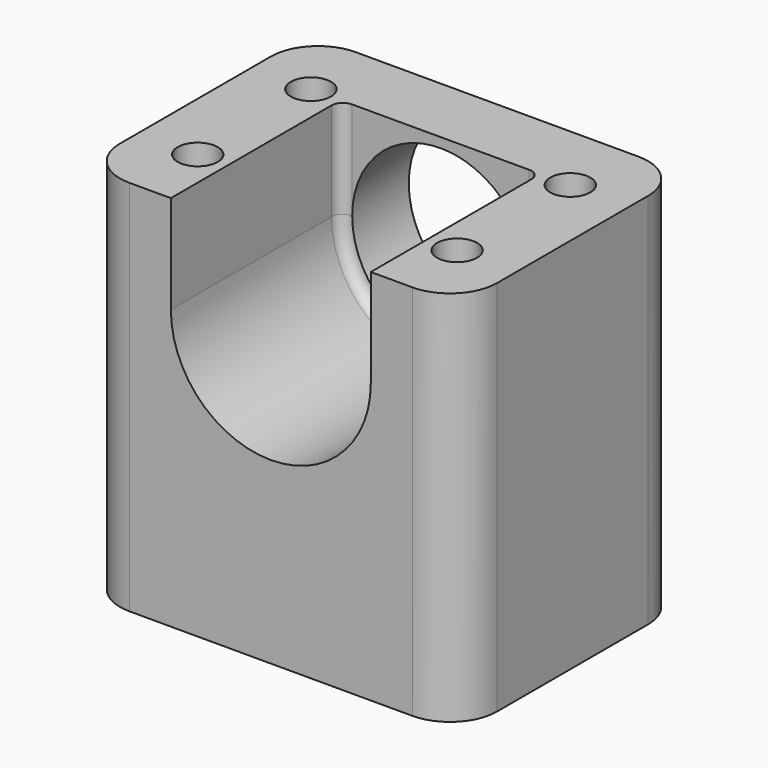
from build123d import *

# Parameters (mm, degrees)
F0_W     = 25.4
F0_H     = 19.05
F1_DEPTH = 25.4
F3_DEPTH = 14.2875
F5_D     = 2.7051
F7_D     = 11.90498
F8_R     = 3.175
F9_R     = 0.762


with BuildPart() as f1:
    # F0 (on Top) → F1 (new body)
    with BuildSketch(Plane.XY):
        Rectangle(F0_W, F0_H)
    extrude(amount=F1_DEPTH)

    # F2 (on face) → F3 (cut)
    with BuildSketch(Plane.XZ.offset(9.525)):
        with BuildLine():
            Line((6.731, 25.4), (-6.731, 25.4))
            Line((-6.731, 25.4), (-6.731, 18.796))
            ThreePointArc((-6.731, 18.796), (0, 12.065), (6.731, 18.796))
            Line((6.731, 18.796), (6.731, 25.4))
        make_face()
    extrude(amount=-F3_DEPTH, mode=Mode.SUBTRACT)

    # F5 (through all)
    with Locations(Plane.XY.offset(25.4)):
        with Locations((-8.73125, 4.7625), (-8.73125, -4.7625), (8.73125, 4.7625), (8.73125, -4.7625)):
            Hole(F5_D / 2)

    # F7 (through all)
    with Locations(Plane.XZ.offset(-4.7625)):
        with Locations((0, 18.796)):
            Hole(F7_D / 2)

    # F8
    f8_edges = [f1.edges().sort_by_distance(p)[0] for p in [
        (-12.7, -9.525, 12.7),
        (12.7, -9.525, 12.7),
        (12.7, 9.525, 12.7),
        (-12.7, 9.525, 12.7),
    ]]
    fillet(f8_edges, radius=F8_R)

    # F9
    f9_edges = [f1.edges().sort_by_distance(p)[0] for p in [
        (-6.731, 4.7625, 22.098),
        (0, 4.7625, 12.065),
        (6.731, 4.7625, 22.098),
    ]]
    fillet(f9_edges, radius=F9_R)


solid = f1.part
